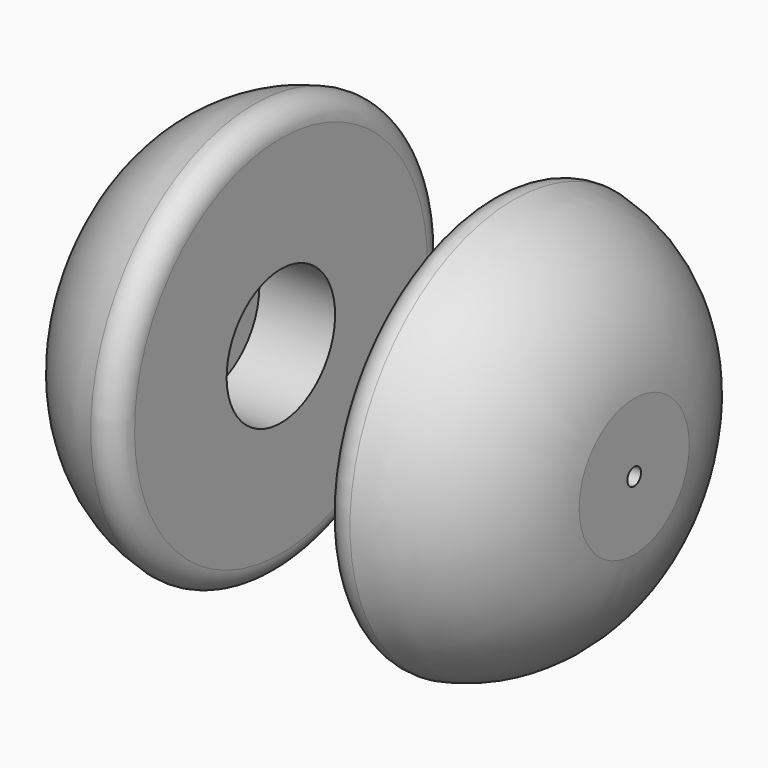
from build123d import *


with BuildPart() as f2:
    # F0 (on Front) → F2 (revolve)
    with BuildSketch(Plane.XZ):
        with BuildLine():
            Line((-80.659864, 1.5875), (-80.659864, 4.7625))
            Line((-80.659864, 4.7625), (-71.134864, 4.7625))
            Line((-71.134864, 4.7625), (-71.134864, 12.516351))
            Line((-71.134864, 12.516351), (-57.139464, 12.516351))
            Line((-57.139464, 12.516351), (-57.139464, 33.771543))
            ThreePointArc((-57.139464, 33.771543), (-58.636664, 36.922358), (-62.02511, 37.751618))
            ThreePointArc((-62.02511, 37.751618), (-77.312231, 28.918913), (-84.287874, 12.7))
            Line((-84.287874, 12.7), (-84.287874, 1.5875))
            Line((-84.287874, 1.5875), (-80.659864, 1.5875))
        make_face()
    revolve(axis=Axis((-70.746966, 0, 0), (-1, 0, 0)))


with BuildPart() as f3_1:
    # F3: instance of F2
    add(f2.part.mirror(Plane.YZ.offset(-38.1)))


solid = Compound([f2.part, f3_1.part])
